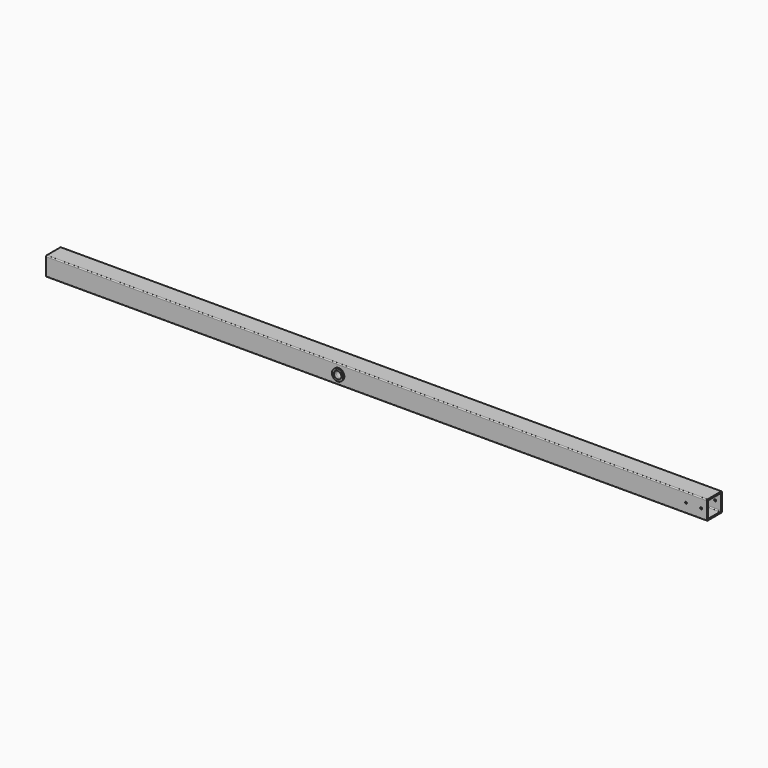
from build123d import *

# Parameters (mm, degrees)
F3_DEPTH      = 1400
F4_R          = 12
F4_R_2        = 8
F5_DEPTH      = 3
F5_DEPTH_BACK = 43
F6_DEPTH      = 63
F4_R_3        = 2
F7_DEPTH      = 50000


with BuildPart() as f3:
    # F2 (on Right) → F3 (new body)
    with BuildSketch(Plane.YZ):
        with BuildLine():
            Line((18.886194054, 20.0493852866), (-17.113805946, 20.0493852866))
            ThreePointArc((-17.113805946, 20.0493852866), (-18.5280195083, 19.463598849), (-19.113805946, 18.0493852866))
            Line((-19.113805946, 18.0493852866), (-19.113805946, -17.9506147134))
            ThreePointArc((-19.113805946, -17.9506147134), (-18.5280195083, -19.3648282758), (-17.113805946, -19.9506147134))
            Line((-17.113805946, -19.9506147134), (18.886194054, -19.9506147134))
            ThreePointArc((18.886194054, -19.9506147134), (20.3004076164, -19.3648282758), (20.886194054, -17.9506147134))
            Line((20.886194054, -17.9506147134), (20.886194054, 18.0493852866))
            ThreePointArc((20.886194054, 18.0493852866), (20.3004076164, 19.463598849), (18.886194054, 20.0493852866))
        make_face()
        with BuildLine():
            Line((-16.113805946, -14.9506147134), (-16.113805946, 15.0493852866))
            ThreePointArc((-16.113805946, 15.0493852866), (-15.5280195083, 16.463598849), (-14.113805946, 17.0493852866))
            Line((-14.113805946, 17.0493852866), (17.886194054, 17.0493852866))
            Line((17.886194054, 17.0493852866), (17.886194054, -14.9506147134))
            ThreePointArc((17.886194054, -14.9506147134), (17.3004076164, -16.3648282758), (15.886194054, -16.9506147134))
            Line((15.886194054, -16.9506147134), (-14.113805946, -16.9506147134))
            ThreePointArc((-14.113805946, -16.9506147134), (-15.5280195083, -16.3648282758), (-16.113805946, -14.9506147134))
        make_face(mode=Mode.SUBTRACT)
    extrude(amount=-F3_DEPTH)

    # F4 (on face) → F5 (join, two sides)
    with BuildSketch(Plane.XZ.offset(19.113805946)) as f5_sk:
        with Locations((-780, 0.0493852866)):
            Circle(F4_R)
        with Locations((-780, 0.0493852866)):
            Circle(F4_R_2, mode=Mode.SUBTRACT)
    extrude(amount=F5_DEPTH)
    extrude(f5_sk.sketch, amount=-F5_DEPTH_BACK)

    # F6 (cut): a face of the model
    f6_faces = [f3.faces().sort_by_distance(p)[0] for p in [
        (-780, 20.886194054, 0.0493852866),
    ]]
    extrude(f6_faces, amount=-F6_DEPTH, mode=Mode.SUBTRACT)

    # F4 (on face) → F7 (cut)
    with BuildSketch(Plane.XZ.offset(19.113805946)):
        with Locations((-44, 0)):
            Circle(F4_R_3)
        with Locations((-12, 0)):
            Circle(F4_R_3)
    extrude(amount=-F7_DEPTH, mode=Mode.SUBTRACT)


solid = f3.part
